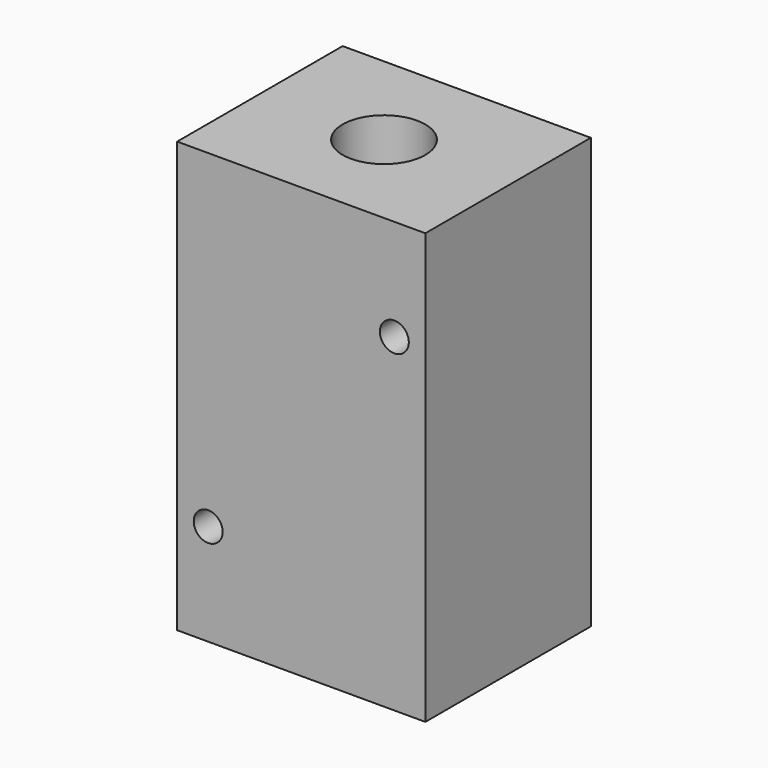
from build123d import *

# Parameters (mm, degrees)
F0_W     = 60
F0_H     = 50
F0_R     = 10
F1_DEPTH = 52
F3_D     = 7
F3_DEPTH = 18
F3_TIP   = 2.1030121666


with BuildPart() as f1:
    # F0 (on Top) → F1 (new body, symmetric)
    with BuildSketch(Plane.XY):
        Rectangle(F0_W, F0_H)
        Circle(F0_R, mode=Mode.SUBTRACT)
    extrude(amount=F1_DEPTH, both=True)

    # F3
    with Locations(Plane.XZ.offset(25)):
        with Locations((22.5, 27.5), (-22.5, -27.5)):
            Hole(F3_D / 2, depth=F3_DEPTH)
            with Locations((0, 0, -(F3_DEPTH + F3_TIP / 2))):  # 118° drill point
                Cone(0, F3_D / 2, F3_TIP, mode=Mode.SUBTRACT)


solid = f1.part
